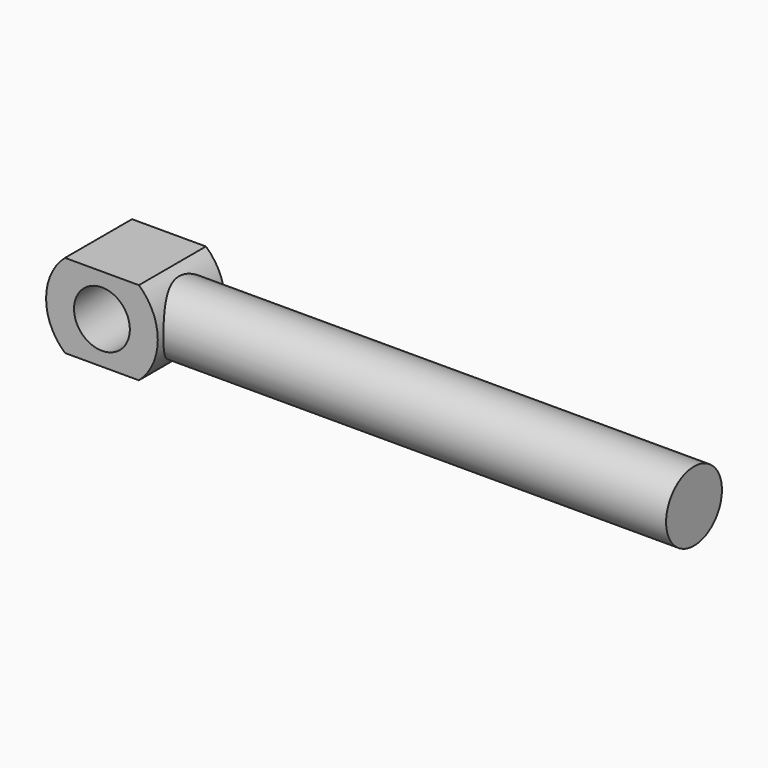
from build123d import *

# Parameters (mm, degrees)
F0_W     = 400
F0_H     = 25
F2_R     = 20
F3_DEPTH = 30
F4_DEPTH = 30


with BuildPart() as f1:
    # F0 (on Front) → F1 (revolve)
    with BuildSketch(Plane.XZ):
        with Locations((200, 12.5)):
            Rectangle(F0_W, F0_H)
    revolve(axis=Axis((200, 0, 0), (-1, 0, 0)))

    # F2 (on Front) → F3 (join, symmetric)
    with BuildSketch(Plane.XZ):
        with BuildLine():
            Line((26.457513, 30), (-26.457513, 30))
            ThreePointArc((-26.457513, 30), (-40, 0), (-26.457513, -30))
            Line((-26.457513, -30), (26.457513, -30))
            ThreePointArc((26.457513, -30), (40, 0), (26.457513, 30))
        make_face()
        Circle(F2_R, mode=Mode.SUBTRACT)
        Circle(F2_R)
    extrude(amount=F3_DEPTH, both=True)

    # F2 (on Front) → F4 (cut, symmetric)
    with BuildSketch(Plane.XZ):
        Circle(F2_R)
    extrude(amount=F4_DEPTH, both=True, mode=Mode.SUBTRACT)


solid = f1.part
